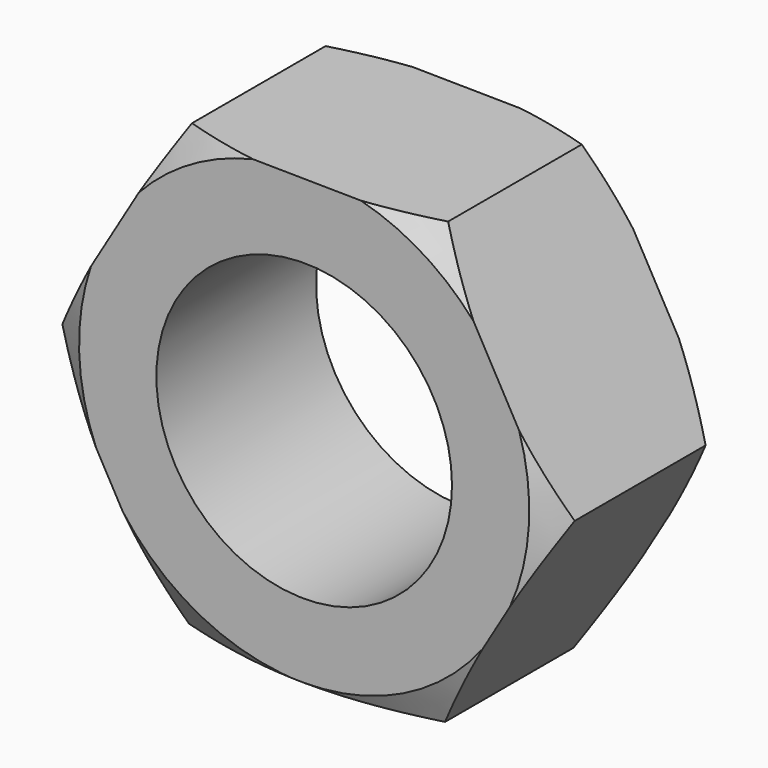
from build123d import *

# Parameters (mm, degrees)
F1_DEPTH = 10.7188
F2_R     = 7.9375
F3_DEPTH = 10.7198


with BuildPart() as f1:
    # F0 (on Front) → F1 (new body)
    with BuildSketch(Plane.XZ):
        Polygon((-13.754363, 0.175734), (-7.029372, -11.823761), (6.724991, -11.999495), (13.754363, -0.175734), (7.029372, 11.823761), (-6.724991, 11.999495), align=None)
    extrude(amount=F1_DEPTH)

    # F2 (on face) → F3 (cut, through all)
    with BuildSketch(Plane.XZ.offset(10.7188)):
        Circle(F2_R)
    extrude(amount=-F3_DEPTH, mode=Mode.SUBTRACT)

    # F4 (on Right) → F5 (revolve, cut)
    with BuildSketch(Plane.YZ):
        Polygon((-6.554505, -19.124399), (-10.7188, -11.911628), (-10.7188, -19.124399), align=None)
        Polygon((0, -11.911628), (-4.164295, -19.124399), (0, -19.124399), align=None)
    revolve(axis=Axis((0, -5.3594, 0.175734), (0, -1, 0)), mode=Mode.SUBTRACT)


solid = f1.part
